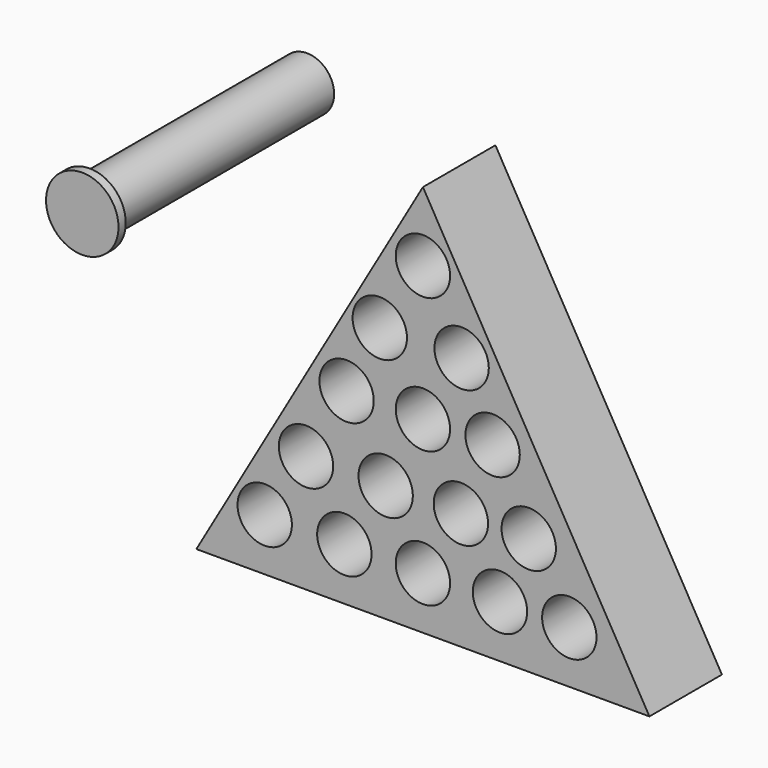
from build123d import *

# Parameters (mm, degrees)
F1_DEPTH = 25.4
F2_R     = 7.62
F3_DEPTH = 19.05
F4_R     = 7.62
F5_DEPTH = 76.2
F6_R     = 7.62
F6_R_2   = 10.16
F7_DEPTH = 2.54


with BuildPart() as f1:
    # F0 (on Front) → F1 (new body)
    with BuildSketch(Plane.XZ):
        Polygon((63.5, -47.445105), (0, 62.540121), (-63.5, -47.445105), align=None)
    extrude(amount=F1_DEPTH)

    # F2 (on face) → F3 (cut)
    with BuildSketch(Plane.XZ.offset(25.4)):
        with Locations((0, 43.106165)):
            Circle(F2_R)
        with Locations((-12.094534, 23.878952)):
            Circle(F2_R)
        with Locations((10.85407, 23.878952)):
            Circle(F2_R)
        with Locations((0, 5.271977)):
            Circle(F2_R)
        with Locations((-21.398023, 5.271977)):
            Circle(F2_R)
        with Locations((19.537326, 5.271977)):
            Circle(F2_R)
        with Locations((-32.768954, -14.575465)):
            Circle(F2_R)
        with Locations((-10.440581, -14.575465)):
            Circle(F2_R)
        with Locations((10.647326, -14.575465)):
            Circle(F2_R)
        with Locations((29.667793, -14.575465)):
            Circle(F2_R)
        with Locations((0, -32.768954)):
            Circle(F2_R)
        with Locations((21.604767, -32.768954)):
            Circle(F2_R)
        with Locations((41.038726, -32.768954)):
            Circle(F2_R)
        with Locations((-22.018256, -32.768954)):
            Circle(F2_R)
        with Locations((-44.346627, -32.768954)):
            Circle(F2_R)
    extrude(amount=-F3_DEPTH, mode=Mode.SUBTRACT)


with BuildPart() as f5:
    # F4 (on Front) → F5 (new body)
    with BuildSketch(Plane.XZ):
        with Locations((-52.823141, 60.472675)):
            Circle(F4_R)
    extrude(amount=F5_DEPTH)

    # F6 (on face) → F7 (join)
    with BuildSketch(Plane.XZ.offset(76.2)):
        with Locations((-52.823141, 60.472675)):
            Circle(F6_R)
        with Locations((-52.823141, 60.472675)):
            Circle(F6_R_2)
    extrude(amount=F7_DEPTH)


solid = Compound([f1.part, f5.part])
